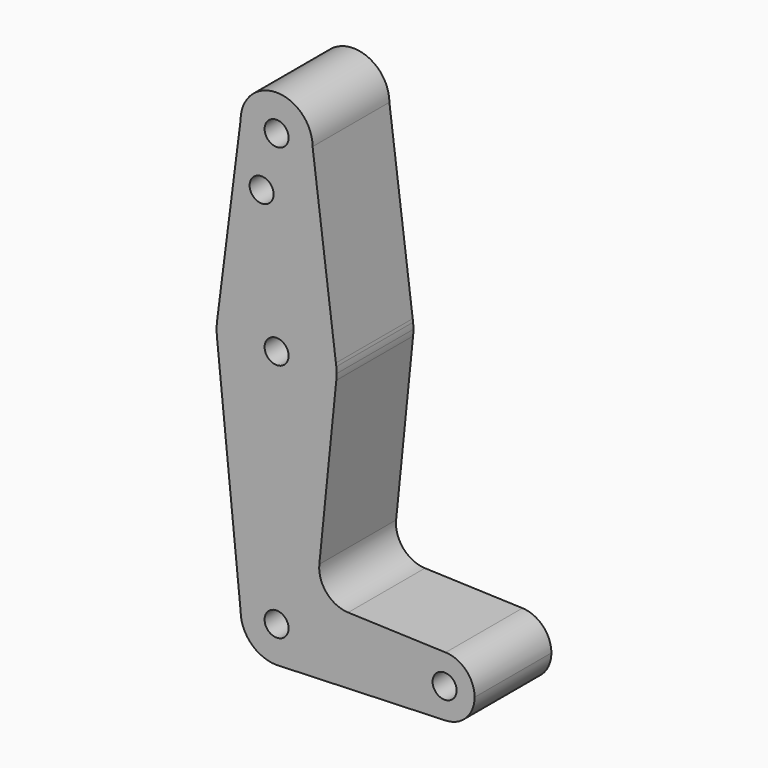
from build123d import *

# Parameters (mm, degrees)
F0_R     = 3.175
F1_DEPTH = 25.4


with BuildPart() as f1:
    # F0 (on Front) → F1 (new body)
    with BuildSketch(Plane.XZ):
        with BuildLine():
            ThreePointArc((0.677344, -9.500886), (6.970557, -6.491299), (9.525, 0))
            ThreePointArc((9.525, 0), (0, 9.525), (-9.525, 0))
            ThreePointArc((-9.525, 0), (-6.735192, -6.735192), (0, -9.525))
            Line((0, -9.525), (0.677344, -9.500886))
        make_face()
        Circle(F0_R, mode=Mode.SUBTRACT)
        with BuildLine():
            ThreePointArc((-9.525, 0), (0, 9.525), (9.525, 0))
            ThreePointArc((9.525, 0), (6.970557, -6.491299), (0.677344, -9.500886))
            Line((0.677344, -9.500886), (44.732405, -7.932475))
            ThreePointArc((44.732405, -7.932475), (36.5125, 0), (44.732405, 7.932475))
            Line((44.732405, 7.932475), (18.934103, 8.850924))
            ThreePointArc((18.934103, 8.850924), (13.224974, 11.57098), (11.307223, 17.59718))
            Line((11.307223, 17.59718), (15.794203, 61.90038))
            ThreePointArc((15.794203, 61.90038), (0, 47.625), (-15.794203, 61.90038))
            Line((-15.794203, 61.90038), (-9.525, 0))
        make_face()
        with BuildLine():
            ThreePointArc((0, -9.525), (0.338886, -9.51897), (0.677344, -9.500886))
            Line((0.677344, -9.500886), (0, -9.525))
        make_face()
        with BuildLine():
            ThreePointArc((-15.747457, 65.508289), (-15.873668, 63.705667), (-15.794203, 61.90038))
            ThreePointArc((-15.794203, 61.90038), (0, 47.625), (15.794203, 61.90038))
            ThreePointArc((15.794203, 61.90038), (15.854788, 62.699171), (15.875, 63.5))
            ThreePointArc((15.875, 63.5), (15.854788, 64.300829), (15.794203, 65.09962))
            Line((15.794203, 65.09962), (15.690657, 65.912239))
            ThreePointArc((15.690657, 65.912239), (-0.203962, 79.37369), (-15.747457, 65.508289))
        make_face()
        with Locations((0, 63.5)):
            Circle(F0_R, mode=Mode.SUBTRACT)
        with BuildLine():
            ThreePointArc((44.732405, 7.932475), (36.5125, 0), (44.732405, -7.932475))
            ThreePointArc((44.732405, -7.932475), (50.161633, -5.51191), (52.3875, 0))
            ThreePointArc((52.3875, 0), (50.161633, 5.51191), (44.732405, 7.932475))
        make_face()
        with Locations((44.45, 0)):
            Circle(F0_R, mode=Mode.SUBTRACT)
        with BuildLine():
            Line((-9.525, 114.3), (-15.747457, 65.508289))
            ThreePointArc((-15.747457, 65.508289), (-0.203962, 79.37369), (15.690657, 65.912239))
            Line((15.690657, 65.912239), (9.525, 114.3))
            ThreePointArc((9.525, 114.3), (0, 104.775), (-9.525, 114.3))
        make_face()
        with Locations((-3.965493, 99.851936)):
            Circle(F0_R, mode=Mode.SUBTRACT)
        with BuildLine():
            ThreePointArc((15.794203, 65.09962), (15.747673, 65.506597), (15.690657, 65.912239))
            Line((15.690657, 65.912239), (15.794203, 65.09962))
        make_face()
        with BuildLine():
            ThreePointArc((9.525, 114.3), (0, 123.825), (-9.525, 114.3))
            ThreePointArc((-9.525, 114.3), (0, 104.775), (9.525, 114.3))
        make_face()
        with Locations((0, 114.3)):
            Circle(F0_R, mode=Mode.SUBTRACT)
    extrude(amount=F1_DEPTH)


solid = f1.part
